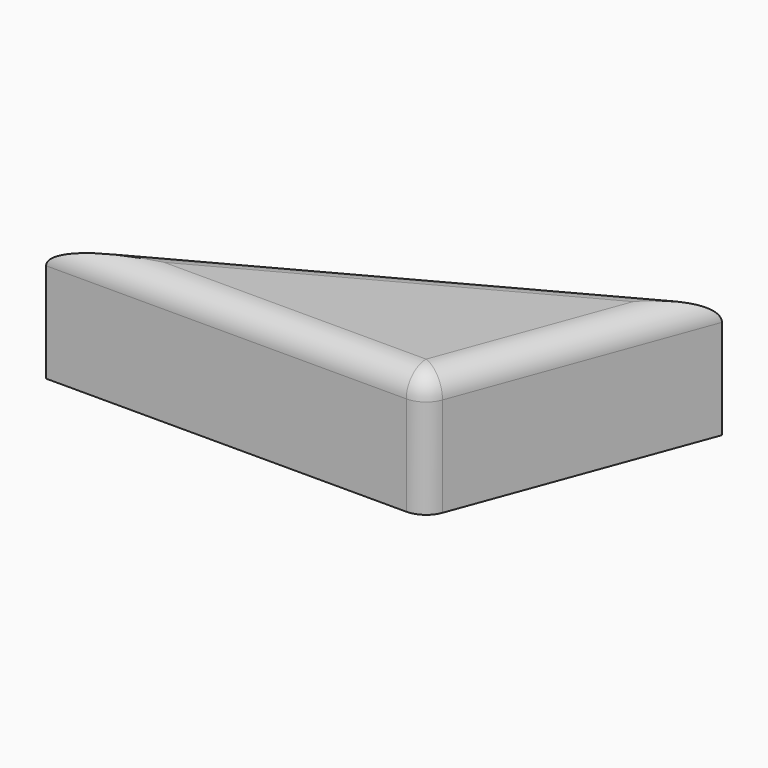
from build123d import *

# Parameters (mm, degrees)
F1_DEPTH = 25.4
F2_R     = 5.08
F3_R     = 5.08


with BuildPart() as f1:
    # F0 (on Top) → F1 (new body)
    with BuildSketch(Plane.XY):
        Polygon((52.649982, 33.518303), (-43.856528, -18.63311), (33.346899, -18.63311), align=None)
    extrude(amount=F1_DEPTH)

    # F2
    f2_edges = [f1.edges().sort_by_distance(p)[0] for p in [
        (33.346899, -18.63311, 12.7),
    ]]
    fillet(f2_edges, radius=F2_R)

    # F3
    f3_edges = [f1.edges().sort_by_distance(p)[0] for p in [
        (-7.023078, -18.63311, 25.4),
        (32.712825, -17.722303, 25.4),
        (4.396727, 7.442596, 25.4),
        (43.612241, 9.10091, 25.4),
    ]]
    fillet(f3_edges, radius=F3_R)


solid = f1.part
